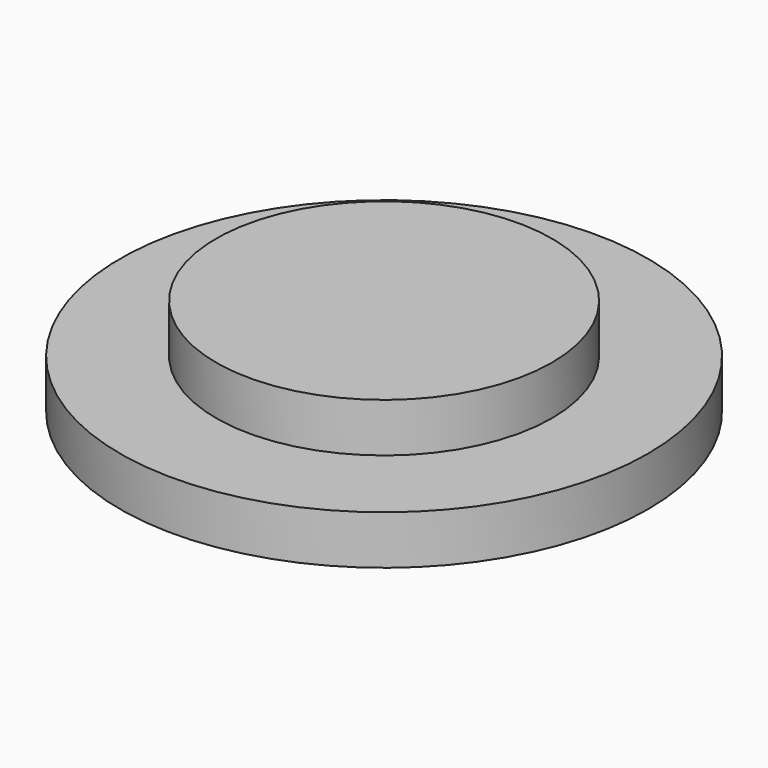
from build123d import *

# Parameters (mm, degrees)
F0_R     = 34.322698
F1_DEPTH = 20
F2_R     = 53.945988
F3_DEPTH = 10
F4_R     = 45.735873
F5_DEPTH = 10


with BuildPart() as f1:
    # F0 (on Top) → F1 (new body)
    with BuildSketch(Plane.XY):
        Circle(F0_R)
    extrude(amount=F1_DEPTH)

    # F2 (on Top) → F3 (join)
    with BuildSketch(Plane.XY):
        Circle(F2_R)
    extrude(amount=F3_DEPTH)

    # F4 (on Top) → F5 (join)
    with BuildSketch(Plane.XY):
        Circle(F4_R)
    extrude(amount=F5_DEPTH)


solid = f1.part
